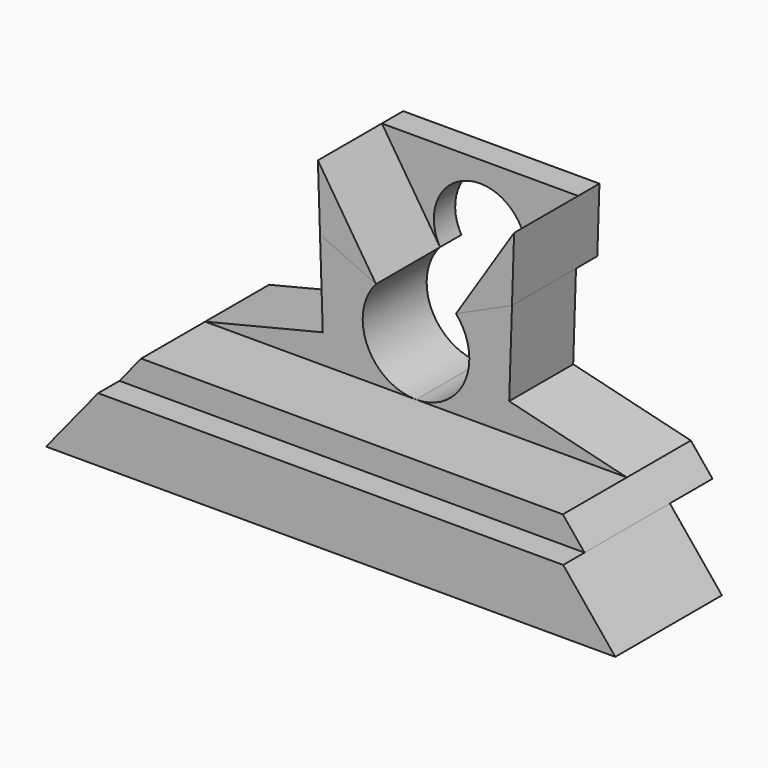
from build123d import *

# Parameters (mm, degrees)
F1_DEPTH      = 4
F1_DEPTH_BACK = 2
F2_DEPTH      = 3
F2_DEPTH_BACK = 1
F3_DEPTH      = 5
F4_DEPTH      = 1
F4_DEPTH_BACK = 2
F5_DEPTH      = 2
F5_DEPTH_BACK = 2


with BuildPart() as f1:
    # F0 (on Front) → F1 (new body, two sides)
    with BuildSketch(Plane.XZ) as f1_sk:
        Polygon((7.9080856242, 0), (0, 0), (-7.9080856242, 0), (-8.721566759, -1), (8.721566759, -1), align=None)
    extrude(amount=F1_DEPTH)
    extrude(f1_sk.sketch, amount=-F1_DEPTH_BACK)

    # F0 (on Front) → F3 (join)
    with BuildSketch(Plane.XZ):
        Polygon((8.721566759, -1), (-8.721566759, -1), (-10.6739214827, -3.4), (0, -3.4), (10.6739214827, -3.4), align=None)
    extrude(amount=F3_DEPTH)


with BuildPart() as f2:
    # F0 (on Front) → F2 (new body, two sides)
    with BuildSketch(Plane.XZ) as f2_sk:
        Polygon((3.6002836309, 4.277432868), (3.6796294153, 6.7), (1.5, 3.3228756555), align=None)
        Polygon((-3.6002836309, 4.277432868), (-1.5, 3.3228756555), (-3.6796294153, 6.7), align=None)
        with BuildLine():
            Line((1.5, 3.3228756555), (3.6796294153, 6.7))
            Line((3.6796294153, 6.7), (0, 6.7))
            Line((0, 6.7), (-3.6796294153, 6.7))
            Line((-3.6796294153, 6.7), (-1.5, 3.3228756555))
            ThreePointArc((-1.5, 3.3228756555), (0, 5.9172543008), (1.5, 3.3228756555))
        make_face()
    extrude(amount=-F2_DEPTH)
    extrude(f2_sk.sketch, amount=F2_DEPTH_BACK)

    # F0 (on Front) → F5 (cut, two sides)
    with BuildSketch(Plane.XZ) as f5_sk:
        with BuildLine():
            Line((1.5, 3.3228756555), (3.6796294153, 6.7))
            Line((3.6796294153, 6.7), (0, 6.7))
            Line((0, 6.7), (-3.6796294153, 6.7))
            Line((-3.6796294153, 6.7), (-1.5, 3.3228756555))
            ThreePointArc((-1.5, 3.3228756555), (0, 5.9172543008), (1.5, 3.3228756555))
        make_face()
    extrude(amount=-F5_DEPTH, mode=Mode.SUBTRACT)
    extrude(f5_sk.sketch, amount=F5_DEPTH_BACK, mode=Mode.SUBTRACT)


with BuildPart() as f4:
    # F0 (on Front) → F4 (new body, two sides)
    with BuildSketch(Plane.XZ) as f4_sk:
        with BuildLine():
            Line((-7.9080856242, 0), (0, 0))
            ThreePointArc((0, 0), (-1.8228756555, 1.1771243445), (-1.5, 3.3228756555))
            Line((-1.5, 3.3228756555), (-3.6002836309, 4.277432868))
            Line((-3.6002836309, 4.277432868), (-3.4956480376, 1.0827231454))
            Line((-3.4956480376, 1.0827231454), (-7.9080856242, 0))
        make_face()
    extrude(amount=F4_DEPTH)
    extrude(f4_sk.sketch, amount=-F4_DEPTH_BACK)


with BuildPart() as f4b:
    # F0 (on Front) → F4, piece 2 (new body, two sides)
    with BuildSketch(Plane.XZ) as f4_2_sk:
        with BuildLine():
            Line((3.6002836309, 4.277432868), (1.5, 3.3228756555))
            ThreePointArc((1.5, 3.3228756555), (1.8228756555, 1.1771243445), (0, 0))
            Line((0, 0), (7.9080856242, 0))
            Line((7.9080856242, 0), (3.4956480376, 1.0827231454))
            Line((3.4956480376, 1.0827231454), (3.6002836309, 4.277432868))
        make_face()
    extrude(amount=F4_DEPTH)
    extrude(f4_2_sk.sketch, amount=-F4_DEPTH_BACK)


solid = Compound([f1.part, f2.part, f4.part, f4b.part])
